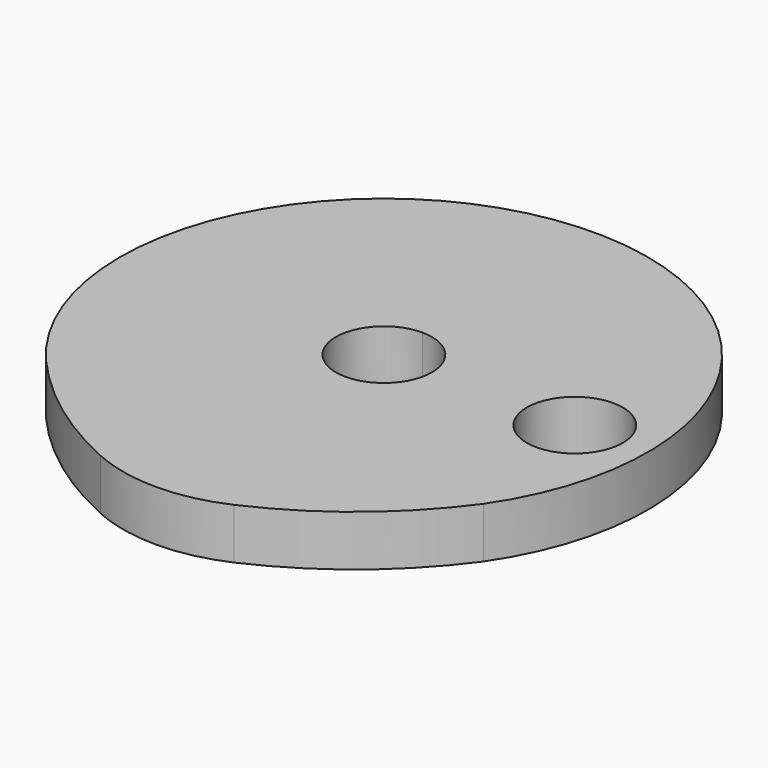
from build123d import *

# Parameters (mm, degrees)
F1_DEPTH = 6.35
F2_R     = 20.32


with BuildPart() as f1:
    # F0 (on Top) → F1 (new body)
    with BuildSketch(Plane.XY):
        with BuildLine():
            ThreePointArc((0, -36.83), (15.291644, -30.136686), (27.313114, -18.555706))
            ThreePointArc((27.313114, -18.555706), (-1.961985, 32.96166), (-24.919063, -21.664734))
            ThreePointArc((-24.919063, -21.664734), (-13.61836, -31.151515), (0, -36.83))
        make_face()
        with BuildLine():
            ThreePointArc((6, 0), (4.242641, -4.242641), (0, -6))
            ThreePointArc((0, -6), (-6, 0), (0, 6))
            ThreePointArc((0, 6), (4.242641, 4.242641), (6, 0))
        make_face(mode=Mode.SUBTRACT)
        with BuildLine():
            ThreePointArc((29.876, 0), (23.876, -6), (17.876, 0))
            ThreePointArc((17.876, 0), (23.876, 6), (29.876, 0))
        make_face(mode=Mode.SUBTRACT)
    extrude(amount=F1_DEPTH)

    # F2
    f2_edges = [f1.edges().sort_by_distance(p)[0] for p in [
        (0, -36.83, 3.175),
    ]]
    fillet(f2_edges, radius=F2_R)


solid = f1.part
